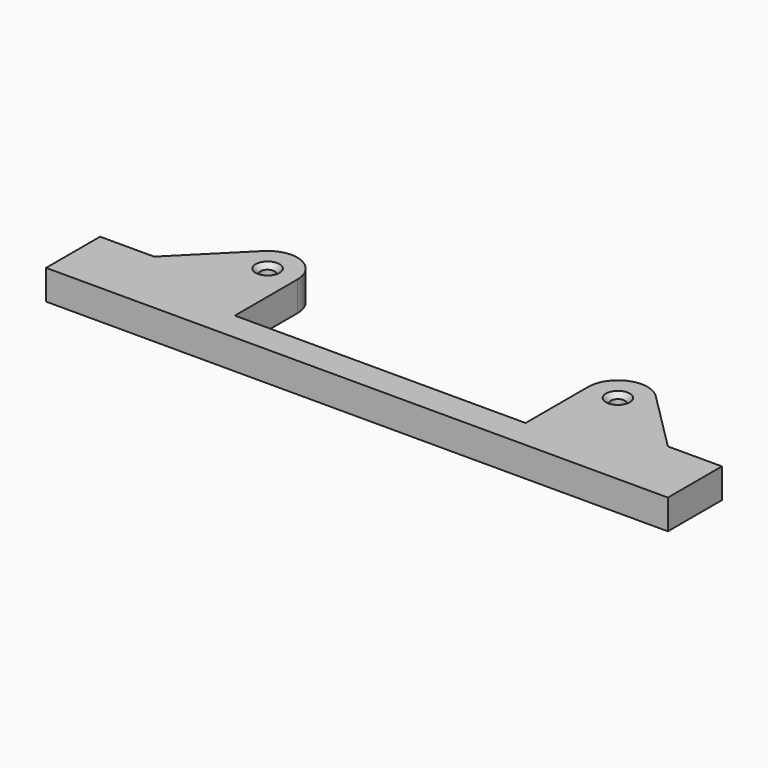
from build123d import *

# Parameters (mm, degrees)
PAD_DEPTH        = 5
SKETCH_R         = 3
POCKET_DEPTH     = 3
HOLE_D           = 2.4
HOLE_CSINK_D     = 4
HOLE_CSINK_ANGLE = 90


with BuildPart() as part:
    # Sketch_1 → Pad (new body)
    with BuildSketch(Plane.XY):
        with BuildLine():
            ThreePointArc((-24.428932, -36.5), (-27.515515, -31.880602), (-32.964466, -32.964466))
            Line((-43.16455, -43.16455), (-32.964466, -32.964466))
            Line((-43.16455, -43.16455), (-52.247863, -43.16455))
            Line((-52.247863, -43.16455), (-52.247863, -54.512786))
            Line((-52.247863, -54.512786), (52.247863, -54.512786))
            Line((52.247863, -43.16455), (52.247863, -54.512786))
            Line((43.16455, -43.16455), (52.247863, -43.16455))
            Line((32.964466, -32.964466), (43.16455, -43.16455))
            ThreePointArc((32.964466, -32.964466), (27.515515, -31.880602), (24.428932, -36.5))
            Line((24.428932, -36.5), (24.428932, -49.634615))
            Line((-24.428932, -49.634615), (24.428932, -49.634615))
            Line((-24.428932, -36.5), (-24.428932, -49.634615))
        make_face()
    extrude(amount=PAD_DEPTH)

    # Sketch (on Face13 of Pad) → Pocket (cut)
    with BuildSketch(Plane(origin=(0, 0, 0), x_dir=(1, 0, 0), z_dir=(0, 0, -1))):
        with Locations((-29.428932, 36.5)):
            Circle(SKETCH_R)
        with Locations((29.428932, 36.5)):
            Circle(SKETCH_R)
    extrude(amount=-POCKET_DEPTH, mode=Mode.SUBTRACT)

    # Hole (through all)
    with Locations(Plane.XY.offset(5)):
        with Locations((-29.428932, -36.5), (29.428932, -36.5)):
            CounterSinkHole(HOLE_D / 2, HOLE_CSINK_D / 2, counter_sink_angle=HOLE_CSINK_ANGLE)


solid = part.part
